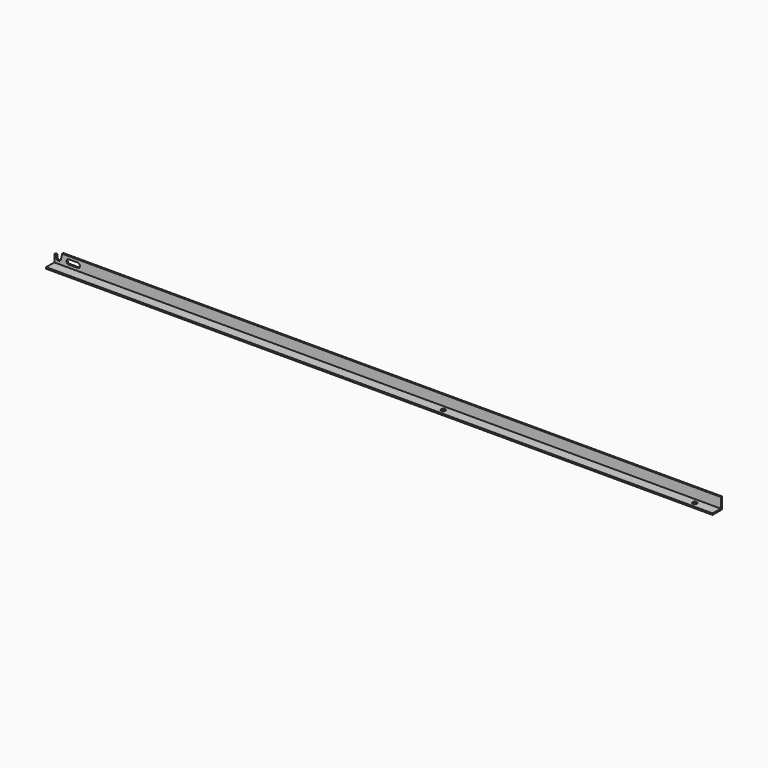
from build123d import *

# Parameters (mm, degrees)
PAD017_DEPTH      = 440
PAD017_DEPTH_BACK = 16
POCKET018_DEPTH   = 5
SKETCH055_R       = 1.5
POCKET019_DEPTH   = 5


with BuildPart() as part:
    # Sketch053 → Pad017 (new body, two sides)
    with BuildSketch(Plane.YZ) as pad017_sk:
        Polygon((0, -4.5), (-8, -4.5), (-8, -3.5), (-1, -3.5), (-1, 3.5), (0, 3.5), align=None)
    extrude(amount=PAD017_DEPTH)
    extrude(pad017_sk.sketch, amount=-PAD017_DEPTH_BACK)

    # Sketch054 → Pocket018 (cut)
    with BuildSketch(Plane.XZ):
        with BuildLine():
            ThreePointArc((-6, 1.6), (-7.6, 0), (-6, -1.6))
            Line((-6, -1.6), (0, -1.6))
            ThreePointArc((0, -1.6), (1.6, 0), (0, 1.6))
            Line((0, 1.6), (-6, 1.6))
        make_face()
        with BuildLine():
            Line((-16.5, 4), (-10.5, 4))
            Line((-10.5, 4), (-11.4360006338, -0.3374996039))
            ThreePointArc((-14.6, 0), (-13.1697071214, -1.5909743848), (-11.4360006338, -0.3374996039))
            Line((-14.6, 0), (-14.6, 1.25))
            ThreePointArc((-14.6, 1.25), (-14.7801442911, 1.6343075923), (-15.1907693019, 1.7416919095))
            Line((-15.1907693019, 1.7416919095), (-16.5, 1.5))
            Line((-16.5, 1.5), (-16.5, 4))
        make_face()
    extrude(amount=POCKET018_DEPTH, mode=Mode.SUBTRACT)

    # Sketch055 → Pocket019 (cut)
    with BuildSketch(Plane.XY):
        with Locations((425, -4.5)):
            Circle(SKETCH055_R)
        with Locations((253, -4.5)):
            Circle(SKETCH055_R)
    extrude(amount=-POCKET019_DEPTH, mode=Mode.SUBTRACT)


solid = part.part
